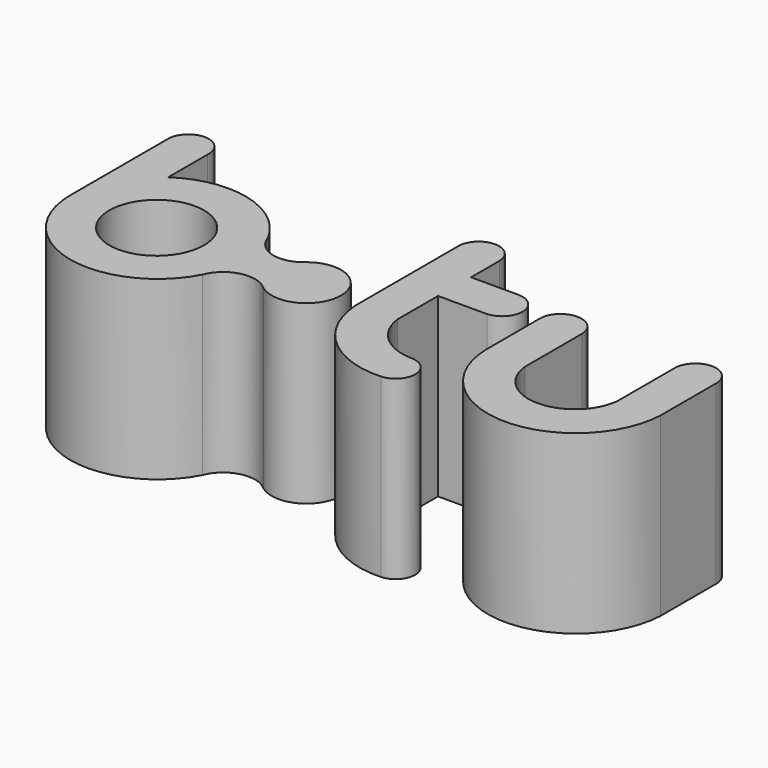
from build123d import *

# Parameters (mm, degrees)
SKETCH003_R = 13.417184
PAD_DEPTH   = 50


with BuildPart() as part:
    # Sketch003 → Pad (new body)
    with BuildSketch(Plane.XY):
        with BuildLine():
            ThreePointArc((100.592001, -15.532155), (94.896046, -9.973995), (89.054965, -15.379439))
            Line((89.054965, -15.379439), (89.054965, -49.428334))
            ThreePointArc((89.054965, -49.428334), (96.144439, -68.004268), (114.666978, -75.232099))
            ThreePointArc((114.666978, -75.232099), (119.982403, -69.486443), (114.244811, -64.162315))
            ThreePointArc((100.468937, -51.591315), (105.053235, -60.401247), (114.244811, -64.162315))
            Line((100.468937, -51.591315), (100.468937, -37.211213))
            Line((100.468937, -37.211213), (114.311441, -37.211213))
            ThreePointArc((114.311441, -37.211213), (119.787219, -31.344318), (114.111035, -25.671088))
            Line((114.111035, -25.671088), (100.592001, -25.671088))
            Line((100.592001, -15.532155), (100.592001, -25.671088))
        make_face()
        with BuildLine():
            ThreePointArc((18.34428, -16.209642), (12.699439, -9.999822), (6.813309, -15.981424))
            Line((6.813309, -15.981424), (6.813309, -50.647022))
            ThreePointArc((6.813309, -50.647022), (25.77067, -74.356694), (53.396399, -61.773008))
            ThreePointArc((67.818269, -58.257543), (59.681248, -56.216093), (53.396399, -61.773008))
            ThreePointArc((67.818269, -58.257543), (83.577804, -50.239906), (67.505024, -42.870294))
            ThreePointArc((53.649257, -38.880599), (59.480837, -44.682785), (67.505024, -42.870294))
            ThreePointArc((53.649257, -38.880599), (37.94851, -26.652001), (18.34428, -30.076362))
            Line((18.34428, -16.209642), (18.34428, -30.076362))
        make_face()
        with Locations((31.474753, -50.60106)):
            Circle(SKETCH003_R, mode=Mode.SUBTRACT)
        with BuildLine():
            ThreePointArc((136.664074, -31.477958), (130.843407, -25.719992), (124.807694, -31.252127))
            Line((124.807694, -31.252127), (124.807694, -50.675155))
            ThreePointArc((124.807694, -50.675155), (149.517148, -74.97216), (174.661347, -51.12534))
            Line((174.661347, -51.12534), (174.661347, -31.477956))
            ThreePointArc((174.661347, -31.477956), (168.845675, -25.602232), (162.918091, -31.365036))
            Line((162.918091, -31.365036), (162.918091, -51.802822))
            ThreePointArc((136.664074, -51.582098), (149.691163, -63.577373), (162.918091, -51.802822))
            Line((136.664074, -51.582098), (136.664074, -31.477958))
        make_face()
    extrude(amount=PAD_DEPTH)


solid = part.part
